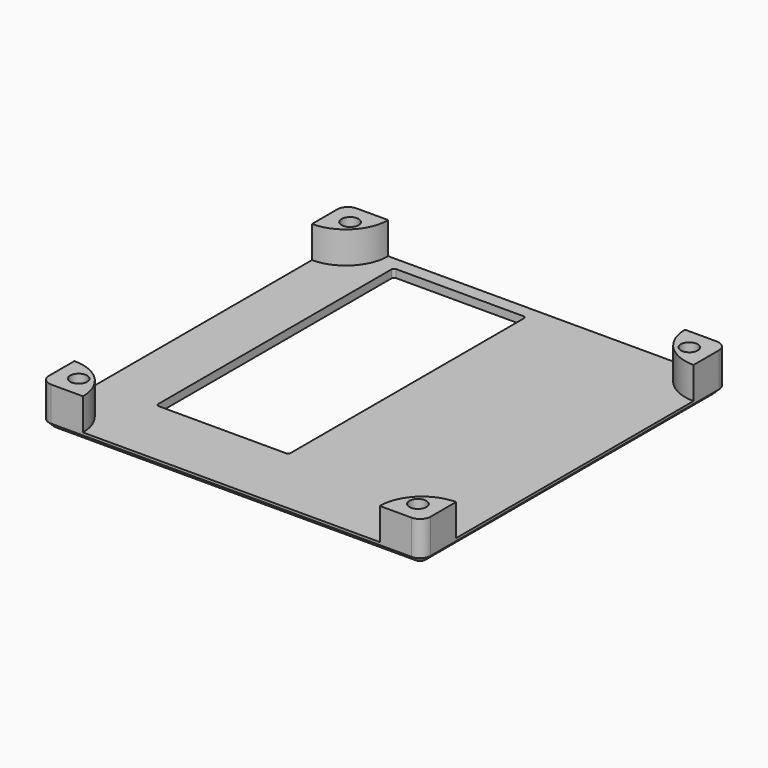
from build123d import *

# Parameters (mm, degrees)
SKETCH_W        = 72
SKETCH_H        = 72
PAD_DEPTH       = 1.5
PAD001_DEPTH    = 6
SKETCH002_R     = 1.6
POCKET_DEPTH    = 7.501
FILLET_R        = 2
CHAMFER_SIZE    = 1
POCKET001_DEPTH = 5


with BuildPart() as part:
    # Sketch → Pad (new body)
    with BuildSketch(Plane.XY):
        with Locations((36, -36)):
            Rectangle(SKETCH_W, SKETCH_H)
    extrude(amount=PAD_DEPTH)

    # Sketch001 (on Face6 of Pad) → Pad001 (join)
    with BuildSketch(Plane.XY.offset(1.5)):
        with BuildLine():
            ThreePointArc((0, -8), (5.656854, -5.656854), (8, 0))
            Line((0, 0), (8, 0))
            Line((0, -8), (0, 0))
        make_face()
        with BuildLine():
            ThreePointArc((8, -72), (5.656854, -66.343146), (0, -64))
            Line((0, -72), (0, -64))
            Line((8, -72), (0, -72))
        make_face()
        with BuildLine():
            ThreePointArc((72, -64), (66.343146, -66.343146), (64, -72))
            Line((64, -72), (72, -72))
            Line((72, -72), (72, -64))
        make_face()
        with BuildLine():
            ThreePointArc((64, 0), (66.343146, -5.656854), (72, -8))
            Line((72, -8), (72, 0))
            Line((72, 0), (64, 0))
        make_face()
    extrude(amount=PAD001_DEPTH)

    # Sketch002 (on Face14 of Pad001) → Pocket (cut, through all)
    with BuildSketch(Plane.XY.offset(7.5)):
        with Locations((4, -4)):
            Circle(SKETCH002_R)
        with Locations((68, -4)):
            Circle(SKETCH002_R)
        with Locations((68, -68)):
            Circle(SKETCH002_R)
        with Locations((4, -68)):
            Circle(SKETCH002_R)
    extrude(amount=-POCKET_DEPTH, mode=Mode.SUBTRACT)

    # Fillet
    fillet_edges = [part.edges().sort_by_distance(p)[0] for p in [
        (0, 0, 4.5),
        (72, 0, 4.5),
        (0, -72, 4.5),
        (72, -72, 4.5),
    ]]
    fillet(fillet_edges, radius=FILLET_R)

    # Chamfer
    chamfer_edges = [part.edges().sort_by_distance(p)[0] for p in [
        (36, -72, 0),
    ]]
    chamfer(chamfer_edges, length=CHAMFER_SIZE)

    # Sketch003 (on Face11 of Chamfer) → Pocket001 (cut)
    with BuildSketch(Plane(origin=(0, 0, 0), x_dir=(1, 0, 0), z_dir=(0, 0, -1))):
        with BuildLine():
            ThreePointArc((11, 3), (11.146447, 2.646447), (11.5, 2.5))
            Line((11.5, 2.5), (35.5, 2.5))
            ThreePointArc((35.5, 2.5), (35.853553, 2.646447), (36, 3))
            Line((36, 58), (36, 3))
            ThreePointArc((36, 58), (35.853553, 58.353553), (35.5, 58.5))
            Line((11.5, 58.5), (35.5, 58.5))
            ThreePointArc((11.5, 58.5), (11.146447, 58.353553), (11, 58))
            Line((11, 3), (11, 58))
        make_face()
    extrude(amount=-POCKET001_DEPTH, mode=Mode.SUBTRACT)


solid = part.part
